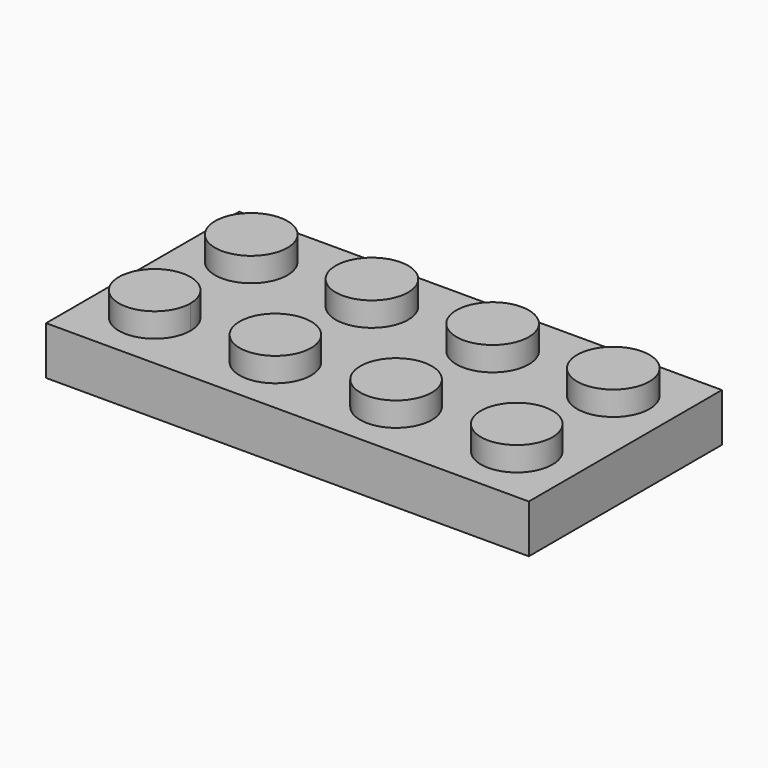
from build123d import *

# Parameters (mm, degrees)
F0_W     = 31.75
F0_H     = 15.875
F0_R     = 2.3538427831
F0_R_2   = 2.38125
F1_DEPTH = 3.175
F2_DEPTH = 4.7625
F3_T     = -1.5875
F4_R     = 3.175
F4_R_2   = 2.38125
F5_DEPTH = 1.5875


with BuildPart() as f1:
    # F0 (on Top) → F1 (new body)
    with BuildSketch(Plane.XY):
        with Locations((0, -3.96875)):
            Rectangle(F0_W, F0_H)
        with BuildLine():
            ThreePointArc((-9.5524072169, -7.9375), (-13.5706681938, -9.6019181938), (-11.90625, -5.5836572169))
            ThreePointArc((-11.90625, -5.5836572169), (-10.2418318062, -6.2730818062), (-9.5524072169, -7.9375))
        make_face(mode=Mode.SUBTRACT)
        with Locations((-3.96875, -7.9375)):
            Circle(F0_R, mode=Mode.SUBTRACT)
        with Locations((3.96875, -7.9375)):
            Circle(F0_R, mode=Mode.SUBTRACT)
        with Locations((11.90625, -7.9375)):
            Circle(F0_R, mode=Mode.SUBTRACT)
        with BuildLine():
            ThreePointArc((-11.90625, -2.38125), (-13.5900480227, 1.6837980227), (-9.525, 0))
            ThreePointArc((-9.525, 0), (-10.2224519773, -1.6837980227), (-11.90625, -2.38125))
        make_face(mode=Mode.SUBTRACT)
        with Locations((-3.96875, 0)):
            Circle(F0_R_2, mode=Mode.SUBTRACT)
        with Locations((3.96875, 0)):
            Circle(F0_R_2, mode=Mode.SUBTRACT)
        with Locations((11.90625, 0)):
            Circle(F0_R_2, mode=Mode.SUBTRACT)
    extrude(amount=F1_DEPTH)

    # F0 (on Top) → F2 (join)
    with BuildSketch(Plane.XY):
        with Locations((11.90625, 0)):
            Circle(F0_R_2)
        with BuildLine():
            ThreePointArc((-11.90625, -2.38125), (-10.2224519773, -1.6837980227), (-9.525, 0))
            ThreePointArc((-9.525, 0), (-13.5900480227, 1.6837980227), (-11.90625, -2.38125))
        make_face()
        with Locations((3.96875, 0)):
            Circle(F0_R_2)
        with Locations((-3.96875, 0)):
            Circle(F0_R_2)
        with BuildLine():
            ThreePointArc((-9.5524072169, -7.9375), (-10.2418318062, -6.2730818062), (-11.90625, -5.5836572169))
            ThreePointArc((-11.90625, -5.5836572169), (-13.5706681938, -9.6019181938), (-9.5524072169, -7.9375))
        make_face()
        with Locations((-3.96875, -7.9375)):
            Circle(F0_R)
        with Locations((3.96875, -7.9375)):
            Circle(F0_R)
        with Locations((11.90625, -7.9375)):
            Circle(F0_R)
    extrude(amount=F2_DEPTH)

    # F3
    f3_openings = [f1.faces().sort_by_distance(p)[0] for p in [
        (0, -3.96875, 0),
    ]]
    offset(amount=F3_T, openings=f3_openings, kind=Kind.INTERSECTION)

    # F4 (on face) → F5 (join)
    with BuildSketch(Plane(origin=(0, 0, 1.5875), x_dir=(1, 0, 0), z_dir=(0, 0, -1))):
        with BuildLine():
            Line((-9.6212980227, 5.6525480227), (-10.1825640303, 6.2138140303))
            ThreePointArc((-10.1825640303, 6.2138140303), (-10.1825640303, 1.7236859697), (-5.6924359697, 1.7236859697))
            Line((-5.6924359697, 1.7236859697), (-6.2537019773, 2.2849519773))
            ThreePointArc((-6.2537019773, 2.2849519773), (-9.6212980227, 2.2849519773), (-9.6212980227, 5.6525480227))
        make_face()
        with BuildLine():
            ThreePointArc((-4.7625, 3.96875), (-6.7224801022, 6.9020675157), (-10.1825640303, 6.2138140303))
            Line((-10.1825640303, 6.2138140303), (-9.6212980227, 5.6525480227))
            ThreePointArc((-9.6212980227, 5.6525480227), (-7.0262350767, 6.1687381368), (-5.55625, 3.96875))
            ThreePointArc((-5.55625, 3.96875), (-5.7375118632, 3.0574850767), (-6.2537019773, 2.2849519773))
            Line((-6.2537019773, 2.2849519773), (-5.6924359697, 1.7236859697))
            ThreePointArc((-5.6924359697, 1.7236859697), (-5.0041824843, 2.7537301022), (-4.7625, 3.96875))
        make_face()
        with Locations((0, 3.96875)):
            Circle(F4_R)
        with Locations((0, 3.96875)):
            Circle(F4_R_2, mode=Mode.SUBTRACT)
        with Locations((7.9375, 3.96875)):
            Circle(F4_R)
        with Locations((7.9375, 3.96875)):
            Circle(F4_R_2, mode=Mode.SUBTRACT)
    extrude(amount=F5_DEPTH)


solid = f1.part
